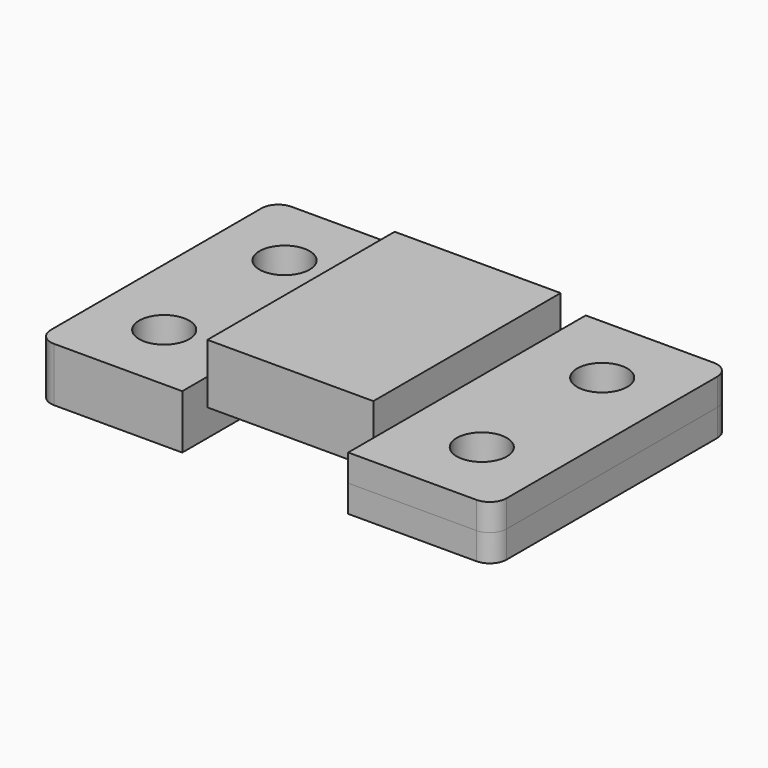
from build123d import *

# Parameters (mm, degrees)
F0_W     = 24.8156127766
F0_H     = 70
F1_DEPTH = 17.79
F0_R     = 7.5
F2_DEPTH = 8.085
F3_DEPTH = 8.085


with BuildPart() as f1:
    # F0 (on Top) → F1 (new body)
    with BuildSketch(Plane.XY):
        with Locations((12.4078063883, 0)):
            Rectangle(F0_W, F0_H)
        with Locations((-12.4078063883, 0)):
            Rectangle(F0_W, F0_H)
    extrude(amount=F1_DEPTH)

    # F0 (on Top) → F2 (join)
    with BuildSketch(Plane.XY):
        with BuildLine():
            Line((24.8156127766, 35), (24.8156127766, -35))
            Line((24.8156127766, -35), (24.8156127766, -44.395))
            Line((24.8156127766, -44.395), (63.155, -44.395))
            ThreePointArc((63.155, -44.395), (66.6905339059, -42.9305339059), (68.155, -39.395))
            Line((68.155, -39.395), (68.155, 39.395))
            ThreePointArc((68.155, 39.395), (66.6905339059, 42.9305339059), (63.155, 44.395))
            Line((63.155, 44.395), (24.8156127766, 44.395))
            Line((24.8156127766, 44.395), (24.8156127766, 35))
        make_face()
        with Locations((47.5, -22.8035077453)):
            Circle(F0_R, mode=Mode.SUBTRACT)
        with Locations((47.5, 22.1964922547)):
            Circle(F0_R, mode=Mode.SUBTRACT)
        with BuildLine():
            Line((-24.8156127766, -44.395), (-24.8156127766, -35))
            Line((-24.8156127766, -35), (-24.8156127766, 35))
            Line((-24.8156127766, 35), (-24.8156127766, 44.395))
            Line((-24.8156127766, 44.395), (-63.155, 44.395))
            ThreePointArc((-63.155, 44.395), (-66.6905339059, 42.9305339059), (-68.155, 39.395))
            Line((-68.155, 39.395), (-68.155, -39.395))
            ThreePointArc((-68.155, -39.395), (-66.6905339059, -42.9305339059), (-63.155, -44.395))
            Line((-63.155, -44.395), (-24.8156127766, -44.395))
        make_face()
        with Locations((-47.5, -22.8035077453)):
            Circle(F0_R, mode=Mode.SUBTRACT)
        with Locations((-47.5, 22.1964922547)):
            Circle(F0_R, mode=Mode.SUBTRACT)
    extrude(amount=F2_DEPTH)

    # F0 (on Top) → F3 (join)
    with BuildSketch(Plane.XY):
        with BuildLine():
            Line((-24.8156127766, -44.395), (-24.8156127766, -35))
            Line((-24.8156127766, -35), (-24.8156127766, 35))
            Line((-24.8156127766, 35), (-24.8156127766, 44.395))
            Line((-24.8156127766, 44.395), (-63.155, 44.395))
            ThreePointArc((-63.155, 44.395), (-66.6905339059, 42.9305339059), (-68.155, 39.395))
            Line((-68.155, 39.395), (-68.155, -39.395))
            ThreePointArc((-68.155, -39.395), (-66.6905339059, -42.9305339059), (-63.155, -44.395))
            Line((-63.155, -44.395), (-24.8156127766, -44.395))
        make_face()
        with Locations((-47.5, -22.8035077453)):
            Circle(F0_R, mode=Mode.SUBTRACT)
        with Locations((-47.5, 22.1964922547)):
            Circle(F0_R, mode=Mode.SUBTRACT)
        with BuildLine():
            Line((24.8156127766, 35), (24.8156127766, -35))
            Line((24.8156127766, -35), (24.8156127766, -44.395))
            Line((24.8156127766, -44.395), (63.155, -44.395))
            ThreePointArc((63.155, -44.395), (66.6905339059, -42.9305339059), (68.155, -39.395))
            Line((68.155, -39.395), (68.155, 39.395))
            ThreePointArc((68.155, 39.395), (66.6905339059, 42.9305339059), (63.155, 44.395))
            Line((63.155, 44.395), (24.8156127766, 44.395))
            Line((24.8156127766, 44.395), (24.8156127766, 35))
        make_face()
        with Locations((47.5, -22.8035077453)):
            Circle(F0_R, mode=Mode.SUBTRACT)
        with Locations((47.5, 22.1964922547)):
            Circle(F0_R, mode=Mode.SUBTRACT)
    extrude(amount=-F3_DEPTH)


solid = f1.part
